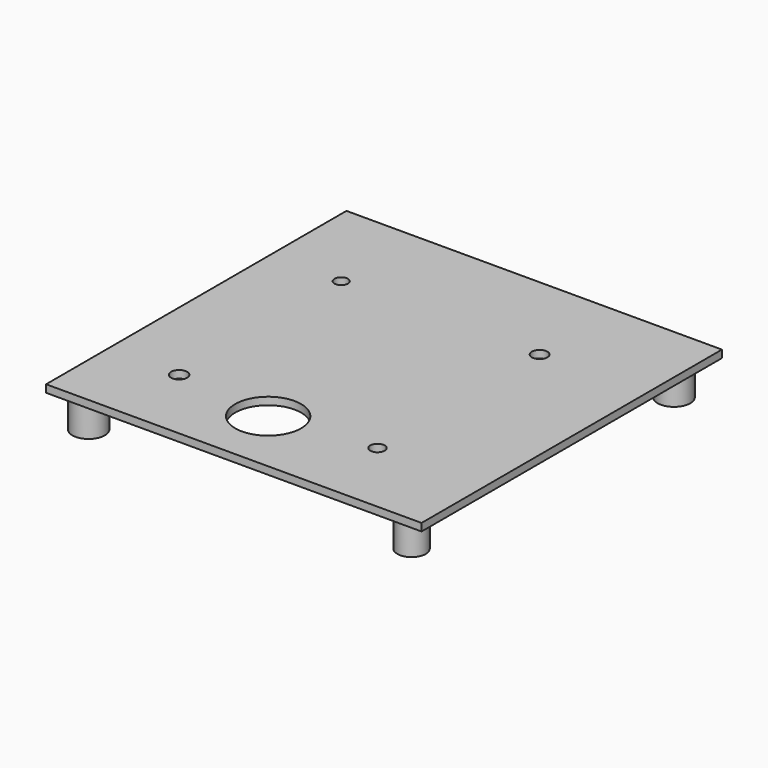
from build123d import *

# Parameters (mm, degrees)
F0_W     = 1422.4
F0_H     = 1422.4
F1_DEPTH = 28.575
F2_R     = 53.878299
F2_R_2   = 61.704348
F2_R_3   = 59.410664
F2_R_4   = 61.388417
F3_DEPTH = 127
F4_R     = 29.44728
F4_R_2   = 25.298259
F4_R_3   = 30.573071
F4_R_4   = 27.370078
F5_DEPTH = 428.45566
F6_R     = 124.806137
F7_DEPTH = 511.49744


with BuildPart() as f1:
    # F0 (on Top) → F1 (new body)
    with BuildSketch(Plane.XY):
        with Locations((-13.414681, 358.960475)):
            Rectangle(F0_W, F0_H)
    extrude(amount=F1_DEPTH)

    # F2 (on face) → F3 (join)
    with BuildSketch(Plane(origin=(0, 0, 0), x_dir=(1, 0, 0), z_dir=(0, 0, -1))):
        with Locations((591.243267, 266.280264)):
            Circle(F2_R)
        with Locations((591.243267, -976.189792)):
            Circle(F2_R_2)
        with Locations((-632.192075, -976.189792)):
            Circle(F2_R_3)
        with Locations((-632.192075, 266.280264)):
            Circle(F2_R_4)
    extrude(amount=F3_DEPTH)

    # F4 (on face) → F5 (cut)
    with BuildSketch(Plane.XY.offset(28.575)):
        with Locations((296.321899, 708.59462)):
            Circle(F4_R)
        with Locations((-455.202579, 708.59462)):
            Circle(F4_R_2)
        with Locations((-455.202579, -59.054408)):
            Circle(F4_R_3)
        with Locations((296.321899, -59.054408)):
            Circle(F4_R_4)
    extrude(amount=-F5_DEPTH, mode=Mode.SUBTRACT)

    # F6 (on face) → F7 (cut)
    with BuildSketch(Plane.XY.offset(28.575)):
        with Locations((-83.842769, -101.621295)):
            Circle(F6_R)
    extrude(amount=-F7_DEPTH, mode=Mode.SUBTRACT)


solid = f1.part
